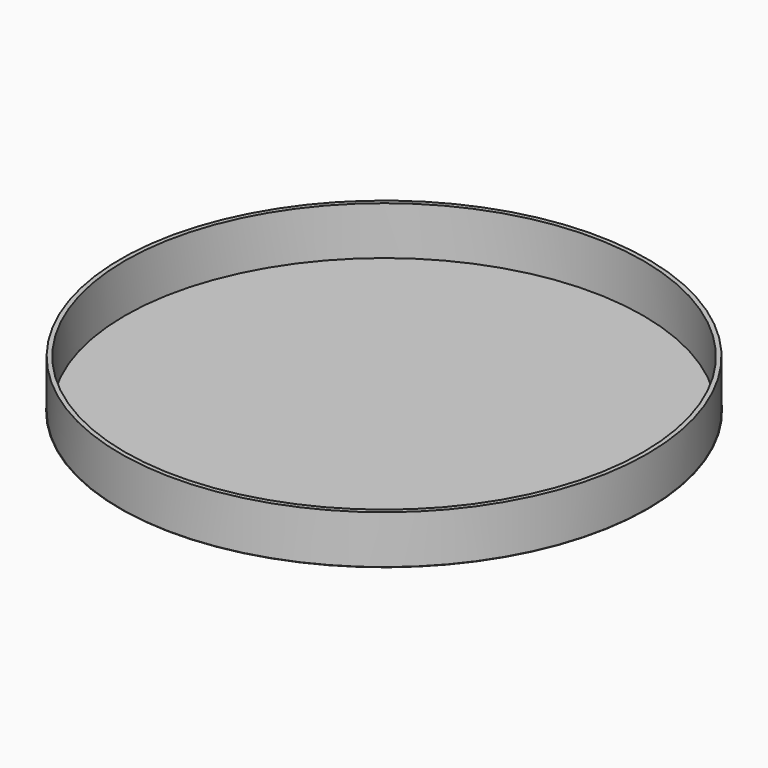
from build123d import *

# Parameters (mm, degrees)
SKETCH018_R  = 200
PAD011_DEPTH = 395
SKETCH016_R  = 59
PAD010_DEPTH = 11
SKETCH015_R  = 60
PAD009_DEPTH = 11


with BuildPart() as pad011:
    # Sketch018 → Pad011 (new body)
    with BuildSketch(Plane.XY.offset(-11)):
        Circle(SKETCH018_R)
    extrude(amount=PAD011_DEPTH)


with BuildPart() as cut010:
    # Sphere → Sphere (revolve)
    with BuildSketch(Plane(origin=(0, 0, 116), x_dir=(1, 0, 0), z_dir=(0, -1, 0))):
        with BuildLine():
            ThreePointArc((0, -140.5), (140.5, 0), (0, 140.5))
            Line((0, 140.5), (0, -140.5))
        make_face()
    revolve(axis=Axis((0, 0, 116), (0, 0, 1)))

    # Cut010: cut Pad011
    add(pad011.part, mode=Mode.SUBTRACT)


with BuildPart() as pad010:
    # Sketch016 → Pad010 (new body)
    with BuildSketch(Plane.XY):
        Circle(SKETCH016_R)
    extrude(amount=-PAD010_DEPTH)


with BuildPart() as fusion:
    # Sketch015 → Pad009 (new body)
    with BuildSketch(Plane.XY):
        Circle(SKETCH015_R)
    extrude(amount=-PAD009_DEPTH)

    # Cut006: cut Pad010
    add(pad010.part, mode=Mode.SUBTRACT)

    # Fusion: union Cut010
    add(cut010.part)


solid = fusion.part
